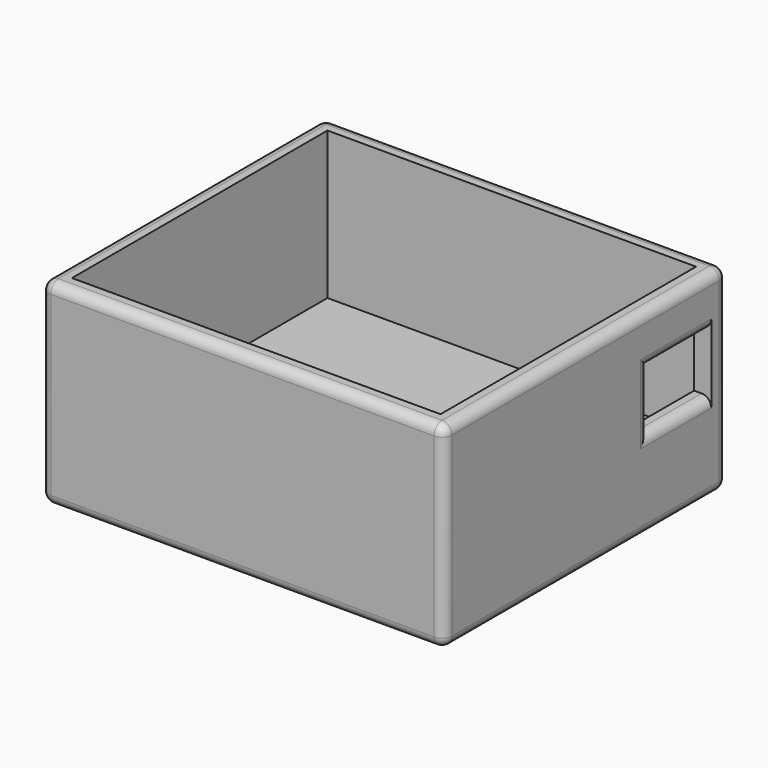
from build123d import *

# Parameters (mm, degrees)
SKETCH_W        = 41
SKETCH_H        = 36
PAD_DEPTH       = 20
SKETCH001_W     = 37.5
SKETCH001_H     = 32.5
POCKET_DEPTH    = 15
SKETCH002_W     = 37.5
SKETCH002_H     = 32.5
POCKET001_DEPTH = 3
SKETCH003_W     = 8
SKETCH003_H     = 6
POCKET002_DEPTH = 5
FILLET_R        = 1
FILLET001_R     = 1
FILLET002_R     = 1
FILLET003_R     = 1
FILLET004_R     = 1
FILLET005_R     = 1
FILLET006_R     = 1
FILLET007_R     = 1


with BuildPart() as part:
    # Sketch → Pad (new body)
    with BuildSketch(Plane.XY):
        Rectangle(SKETCH_W, SKETCH_H)
    extrude(amount=PAD_DEPTH)

    # Sketch001 (on Face6 of Pad) → Pocket (cut)
    with BuildSketch(Plane.XY.offset(20)):
        Rectangle(SKETCH001_W, SKETCH001_H)
    extrude(amount=-POCKET_DEPTH, mode=Mode.SUBTRACT)

    # Sketch002 (on Face4 of Pocket) → Pocket001 (cut)
    with BuildSketch(Plane(origin=(0, 0, 0), x_dir=(1, 0, 0), z_dir=(0, 0, -1))):
        Rectangle(SKETCH002_W, SKETCH002_H)
    extrude(amount=-POCKET001_DEPTH, mode=Mode.SUBTRACT)

    # Sketch003 (on Face3 of Pocket001) → Pocket002 (cut)
    with BuildSketch(Plane.YZ.offset(20.5)):
        with Locations((12, 12)):
            Rectangle(SKETCH003_W, SKETCH003_H)
    extrude(amount=-POCKET002_DEPTH, mode=Mode.SUBTRACT)

    # Fillet
    fillet_edges = [part.edges().sort_by_distance(p)[0] for p in [
        (-20.5, 0, 0),
    ]]
    fillet(fillet_edges, radius=FILLET_R)

    # Fillet001
    fillet001_edges = [part.edges().sort_by_distance(p)[0] for p in [
        (0.5, 18, 0),
    ]]
    fillet(fillet001_edges, radius=FILLET001_R)

    # Fillet002
    fillet002_edges = [part.edges().sort_by_distance(p)[0] for p in [
        (20.5, -0.5, 0),
    ]]
    fillet(fillet002_edges, radius=FILLET002_R)

    # Fillet003
    fillet003_edges = [part.edges().sort_by_distance(p)[0] for p in [
        (0, -18, 0),
    ]]
    fillet(fillet003_edges, radius=FILLET003_R)

    # Fillet004
    fillet004_edges = [part.edges().sort_by_distance(p)[0] for p in [
        (-20.5, 0, 20),
    ]]
    fillet(fillet004_edges, radius=FILLET004_R)

    # Fillet005
    fillet005_edges = [part.edges().sort_by_distance(p)[0] for p in [
        (20.5, 12, 9),
    ]]
    fillet(fillet005_edges, radius=FILLET005_R)

    # Fillet006
    fillet006_edges = [part.edges().sort_by_distance(p)[0] for p in [
        (20.5, 8, 12),
    ]]
    fillet(fillet006_edges, radius=FILLET006_R)

    # Fillet007
    fillet007_edges = [part.edges().sort_by_distance(p)[0] for p in [
        (20.5, 12, 15),
    ]]
    fillet(fillet007_edges, radius=FILLET007_R)


solid = part.part
